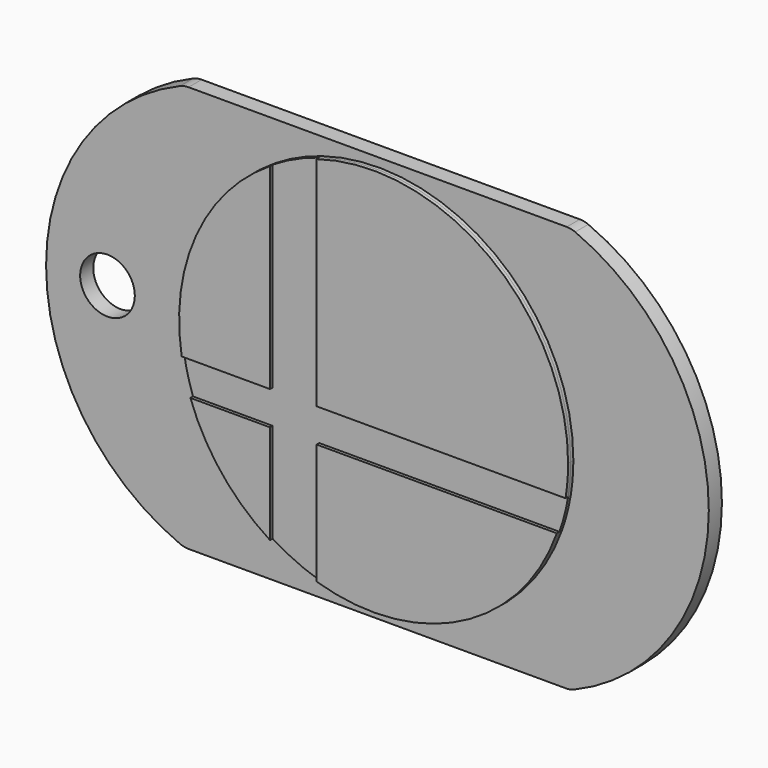
from build123d import *

# Parameters (mm, degrees)
F1_DEPTH = 5.334
F3_DEPTH = 4.572
F2_R     = 6.35
F4_DEPTH = 3.81
F5_R     = 5.08


with BuildPart() as f1:
    # F0 (on Front) → F1 (new body)
    with BuildSketch(Plane.XZ):
        with BuildLine():
            Line((-24.066022, -15.179841), (-42.583715, -15.179841))
            ThreePointArc((-42.583715, -15.179841), (-35.268128, -28.283556), (-24.066022, -38.270445))
            Line((-24.066022, -38.270445), (-24.066022, -15.179841))
        make_face()
        with BuildLine():
            ThreePointArc((-13.254738, -43.221665), (20.288746, -40.400089), (42.583715, -15.179841))
            Line((42.583715, -15.179841), (-13.254738, -15.179841))
            Line((-13.254738, -15.179841), (-13.254738, -43.221665))
        make_face()
        with BuildLine():
            ThreePointArc((44.605963, -7.355843), (45.057547, -3.690236), (45.20841, 0))
            ThreePointArc((45.20841, 0), (26.875405, 36.35262), (-13.254738, 43.221665))
            Line((-13.254738, 43.221665), (-13.254738, -7.355843))
            Line((-13.254738, -7.355843), (44.605963, -7.355843))
        make_face()
        with BuildLine():
            Line((-24.066022, -7.355843), (-24.066022, 38.270445))
            ThreePointArc((-24.066022, 38.270445), (-41.223778, 18.55803), (-44.605963, -7.355843))
            Line((-44.605963, -7.355843), (-24.066022, -7.355843))
        make_face()
    extrude(amount=F1_DEPTH)


with BuildPart() as f3:
    # F0 (on Front) → F3 (new body)
    with BuildSketch(Plane.XZ):
        with BuildLine():
            ThreePointArc((44.605963, -7.355843), (45.057547, -3.690236), (45.20841, 0))
            ThreePointArc((45.20841, 0), (26.875405, 36.35262), (-13.254738, 43.221665))
            Line((-13.254738, 43.221665), (-13.254738, -7.355843))
            Line((-13.254738, -7.355843), (44.605963, -7.355843))
        make_face()
        with BuildLine():
            Line((-13.254738, -7.355843), (-13.254738, 43.221665))
            ThreePointArc((-13.254738, 43.221665), (-18.823879, 41.103065), (-24.066022, 38.270445))
            Line((-24.066022, 38.270445), (-24.066022, -7.355843))
            Line((-24.066022, -7.355843), (-44.605963, -7.355843))
            ThreePointArc((-44.605963, -7.355843), (-43.77001, -11.313118), (-42.583715, -15.179841))
            Line((-42.583715, -15.179841), (-24.066022, -15.179841))
            Line((-24.066022, -15.179841), (-24.066022, -38.270445))
            ThreePointArc((-24.066022, -38.270445), (-18.823879, -41.103065), (-13.254738, -43.221665))
            Line((-13.254738, -43.221665), (-13.254738, -15.179841))
            Line((-13.254738, -15.179841), (42.583715, -15.179841))
            ThreePointArc((42.583715, -15.179841), (43.77001, -11.313118), (44.605963, -7.355843))
            Line((44.605963, -7.355843), (-13.254738, -7.355843))
        make_face()
        with BuildLine():
            Line((-24.066022, -7.355843), (-24.066022, 38.270445))
            ThreePointArc((-24.066022, 38.270445), (-41.223778, 18.55803), (-44.605963, -7.355843))
            Line((-44.605963, -7.355843), (-24.066022, -7.355843))
        make_face()
        with BuildLine():
            ThreePointArc((-13.254738, -43.221665), (20.288746, -40.400089), (42.583715, -15.179841))
            Line((42.583715, -15.179841), (-13.254738, -15.179841))
            Line((-13.254738, -15.179841), (-13.254738, -43.221665))
        make_face()
        with BuildLine():
            Line((-24.066022, -15.179841), (-42.583715, -15.179841))
            ThreePointArc((-42.583715, -15.179841), (-35.268128, -28.283556), (-24.066022, -38.270445))
            Line((-24.066022, -38.270445), (-24.066022, -15.179841))
        make_face()
    extrude(amount=F3_DEPTH)


with BuildPart() as f4:
    # F2 (on Front) → F4 (new body)
    with BuildSketch(Plane.XZ):
        with BuildLine():
            Line((44.663683, 47.2434), (-45.222856, 47.2434))
            ThreePointArc((-45.222856, 47.2434), (-77.345533, 0.001495), (-45.222856, -47.24041))
            Line((-45.222856, -47.24041), (44.473928, -47.24041))
            ThreePointArc((44.473928, -47.24041), (76.691658, -0.063019), (44.663683, 47.2434))
        make_face()
        with Locations((-63.07265, 0.514306)):
            Circle(F2_R, mode=Mode.SUBTRACT)
    extrude(amount=F4_DEPTH)

    # F5
    f5_edges = [f4.edges().sort_by_distance(p)[0] for p in [
        (-45.222856, -1.905, 47.2434),
        (-45.222856, -1.905, -47.24041),
        (44.473928, -1.905, -47.24041),
        (44.663683, -1.905, 47.2434),
    ]]
    fillet(f5_edges, radius=F5_R)


solid = Compound([f1.part, f3.part, f4.part])
